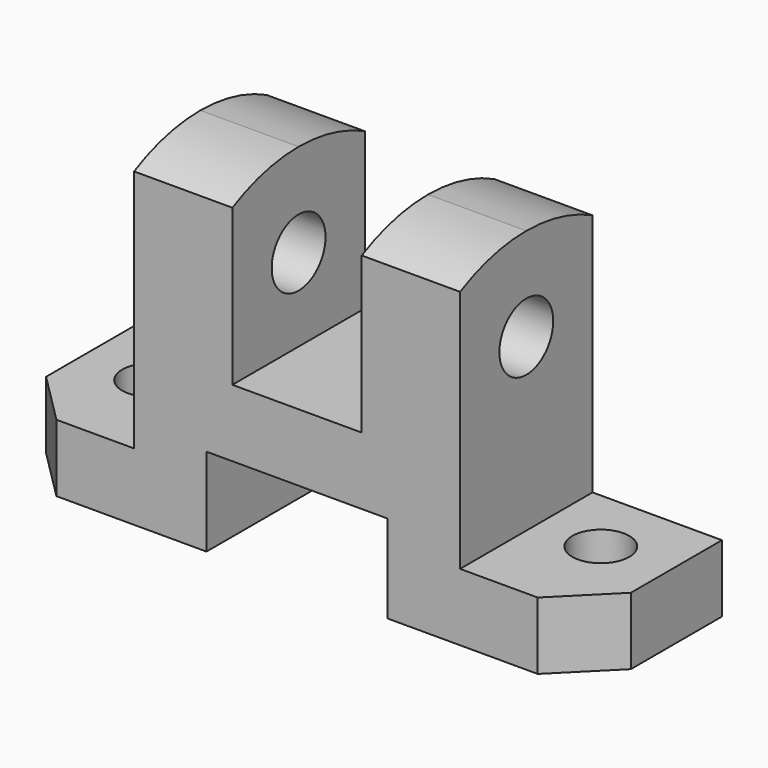
from build123d import *

# Parameters (mm, degrees)
F1_DEPTH = 32
F2_R     = 6.5
F3_DEPTH = 113.001
F4_R     = 5.5
F5_DEPTH = 64.001


with BuildPart() as f1:
    # F0 (on Front) → F1 (new body)
    with BuildSketch(Plane.XZ):
        Polygon((0, 13), (0, 0), (39, 0), (39, 17), (74, 17), (74, 0), (113, 0), (113, 13), (88, 13), (88, 46), (88, 64), (69, 64), (69, 30), (44, 30), (44, 64), (25, 64), (25, 13), align=None)
    extrude(amount=-F1_DEPTH)

    # F2 (on Right) → F3 (cut, through all)
    with BuildSketch(Plane.YZ):
        with BuildLine():
            ThreePointArc((0, 60.128765), (7.769167, 63.018427), (16, 64))
            Line((16, 64), (0, 64))
            Line((0, 64), (0, 60.128765))
        make_face()
        with BuildLine():
            ThreePointArc((16, 64), (24.230833, 63.018427), (32, 60.128765))
            Line((32, 60.128765), (32, 64))
            Line((32, 64), (16, 64))
        make_face()
        with Locations((16, 46)):
            Circle(F2_R)
    extrude(amount=F3_DEPTH, mode=Mode.SUBTRACT)

    # F4 (on Top) → F5 (cut, through all)
    with BuildSketch(Plane.XY):
        Polygon((0, 10), (0, 0), (10, 0), align=None)
        Polygon((103, 0), (113, 0), (113, 10), align=None)
        with Locations((100, 19)):
            Circle(F4_R)
        with Locations((13, 19)):
            Circle(F4_R)
    extrude(amount=F5_DEPTH, mode=Mode.SUBTRACT)


solid = f1.part
